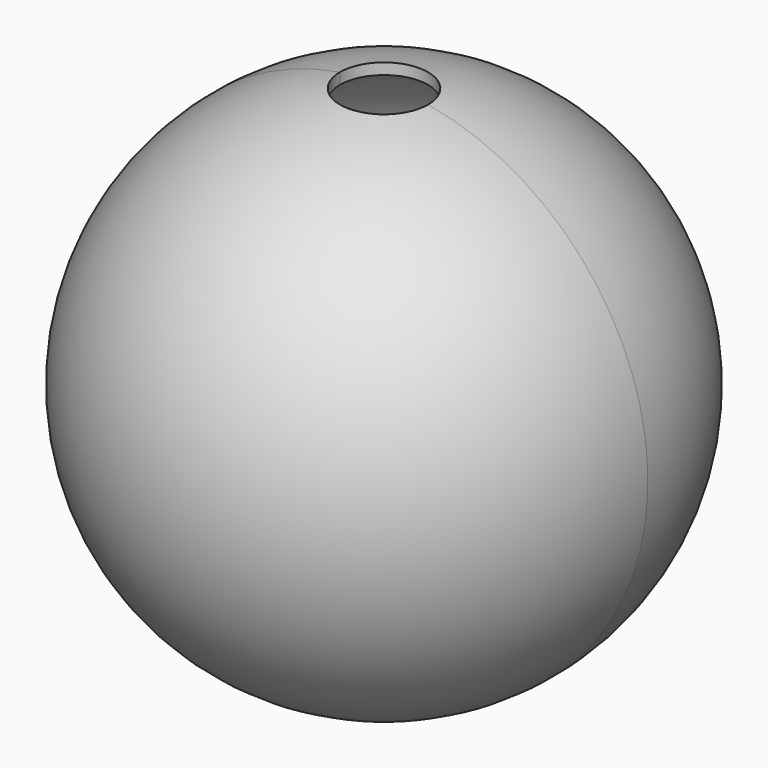
from build123d import *

# Parameters (mm, degrees)
F1_ANGLE = 180
F2_R     = 25.4
F3_DEPTH = 152.4


with BuildPart() as f1:
    # F0 (on Front) → F1 (revolve)
    with BuildSketch(Plane.XZ):
        with BuildLine():
            Line((0, 146.0500061512), (0, 152.4))
            ThreePointArc((0, 152.4), (-152.4, 0), (0, -152.4))
            Line((0, -152.4), (0, -146.0500061512))
            ThreePointArc((0, -146.0500061512), (-146.0500061512, 0), (0, 146.0500061512))
        make_face()
    revolve(axis=Axis((0, 0, 0), (0, 0, -1)), revolution_arc=F1_ANGLE)

    # F2 (on Top) → F3 (cut, symmetric)
    with BuildSketch(Plane.XY):
        Circle(F2_R)
    extrude(amount=F3_DEPTH, both=True, mode=Mode.SUBTRACT)

    # F4: F1 across plane


with BuildPart() as f1_1:
    add(f1.part)
    add(f1.part.mirror(Plane.XZ))


solid = f1_1.part
